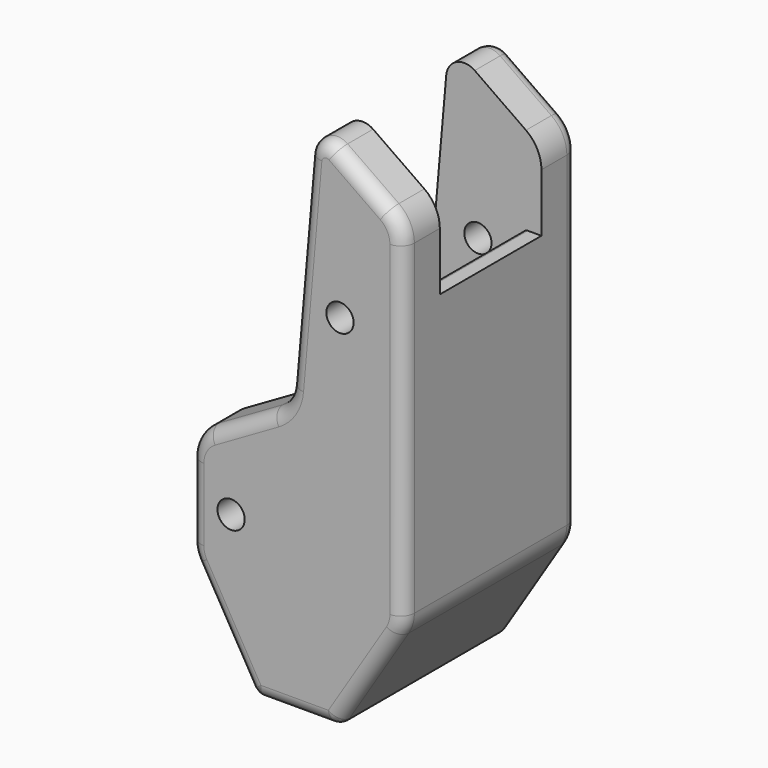
from build123d import *

# Parameters (mm, degrees)
SKETCH036_R              = 1.5
PAD021_DEPTH             = 24
FILLET007_R              = 1.5
POCKET013_DEPTH          = 14
FILLET008_R              = 0.5
CLONE171_PLACEMENT_ANGLE = 180


with BuildPart() as part:
    # Sketch036 → Pad021 (new body)
    with BuildSketch(Plane.XZ):
        with BuildLine():
            Line((-59.294306, 24.684125), (-53.647153, 28.638304))
            ThreePointArc((-50.507611, 27.174311), (-51.654763, 28.812616), (-53.647153, 28.638304))
            Line((-50.507611, 27.174311), (-48.491026, 4.124639))
            ThreePointArc((-48.491026, 4.124639), (-47.879813, 2.324063), (-46.506247, 1.00916))
            Line((-39.5, -3.035898), (-46.506247, 1.00916))
            ThreePointArc((-37.5, -6.5), (-38.035898, -4.5), (-39.5, -3.035898))
            Line((-37.5, -6.5), (-37.5, -14.5))
            ThreePointArc((-38.041032, -16.508866), (-37.637626, -15.540223), (-37.5, -14.5))
            Line((-38.041032, -16.508866), (-44.135258, -27.002216))
            ThreePointArc((-45, -27.5), (-44.501109, -27.366665), (-44.135258, -27.002216))
            Line((-45, -27.5), (-53, -27.5))
            ThreePointArc((-53.846615, -27.032205), (-53.483629, -27.375273), (-53, -27.5))
            Line((-53.846615, -27.032205), (-60.386462, -16.628821))
            ThreePointArc((-61, -14.5), (-60.843556, -15.607735), (-60.386462, -16.628821))
            Line((-61, -14.5), (-61, 21.407517))
            ThreePointArc((-59.294306, 24.684125), (-60.548043, 23.254511), (-61, 21.407517))
        make_face()
        with Locations((-54, 12.5)):
            Circle(SKETCH036_R, mode=Mode.SUBTRACT)
        with Locations((-42, -10.5)):
            Circle(SKETCH036_R, mode=Mode.SUBTRACT)
    extrude(amount=PAD021_DEPTH)

    # Fillet007
    fillet007_edges = [part.edges().sort_by_distance(p)[0] for p in [
        (-60.548043, 0, 23.254511),
        (-60.548043, -24, 23.254511),
    ]]
    fillet(fillet007_edges, radius=FILLET007_R)

    # Sketch037 (on Face12 of Fillet007) → Pocket013 (cut)
    with BuildSketch(Plane.XZ.offset(19)):
        with BuildLine():
            Line((-37.475618, -23.5), (-51.342359, -23.5))
            Line((-51.342359, -23.5), (-57, -14.5))
            Line((-57, -14.5), (-57, 8.5))
            ThreePointArc((-59, 12.5), (-58.472136, 10.263932), (-57, 8.5))
            Line((-59, 12.5), (-59, 15))
            Line((-59, 15), (-79, 15))
            Line((-79, 15), (-79, 35))
            Line((-79, 35), (-15.733307, 35))
            Line((-15.733307, 35), (-15.733307, -20.5))
            Line((-15.733307, -20.5), (-35.733307, -20.5))
            Line((-35.733307, -20.5), (-37.475618, -23.5))
        make_face()
    extrude(amount=-POCKET013_DEPTH, mode=Mode.SUBTRACT)

    # Fillet008
    fillet008_edges = [part.edges().sort_by_distance(p)[0] for p in [
        (-57, -12, 8.5),
        (-59, -12, 15),
        (-57, -12, -14.5),
        (-51.342359, -12, -23.5),
        (-42.101275, -12, -23.5),
    ]]
    fillet(fillet008_edges, radius=FILLET008_R)


with BuildPart() as part_1:
    # Body003 placement: moved
    add(part.part.moved(Location((0, 33, 0))))


with BuildPart() as part_2:
    # Clone171 placement: moved
    add(part_1.part.moved(Location((47, -5, 7.5))).rotate(Axis((47, -5, 7.5), (0, 0, 1)), CLONE171_PLACEMENT_ANGLE))


solid = part_2.part
